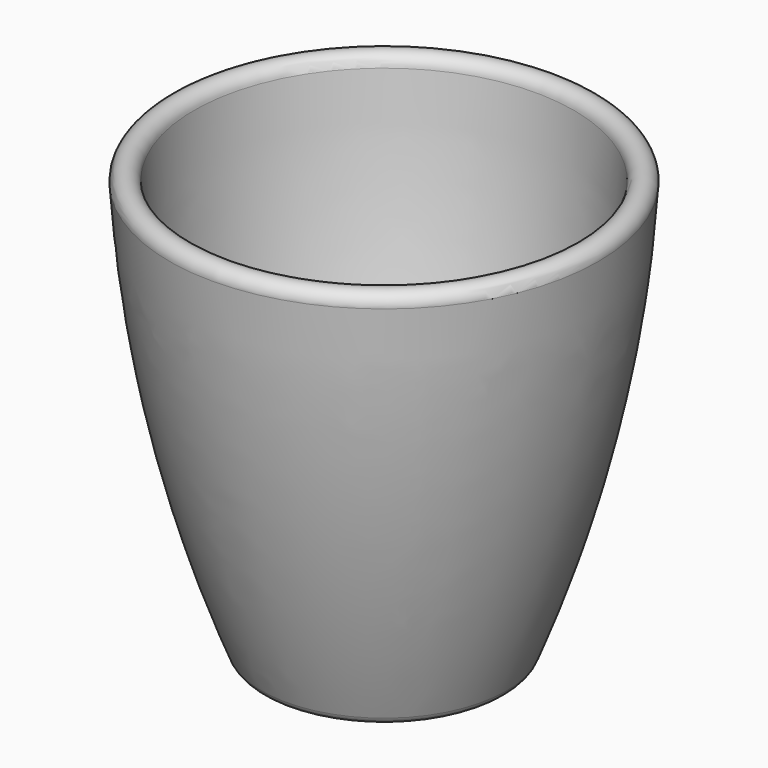
from build123d import *


with BuildPart() as f1:
    # F0 (on Front) → F1 (revolve)
    with BuildSketch(Plane.XZ):
        with BuildLine():
            Line((0, 6), (0, 1))
            Line((0, 1), (15.443911, 1))
            ThreePointArc((15.443911, 1), (15.943911, 0.866025), (16.309937, 0.5))
            ThreePointArc((16.309937, 0.5), (16.675962, 0.133975), (17.175962, 0))
            Line((17.175962, 0), (18.08738, 0))
            ThreePointArc((18.08738, 0), (19.208167, 0.343547), (19.943911, 1.256164))
            ThreePointArc((19.943911, 1.256164), (30.122203, 33.965666), (35, 67.873132))
            ThreePointArc((35, 67.873132), (33.130896, 69.995972), (31.008056, 68.126868))
            ThreePointArc((31.008056, 68.126868), (27.660355, 41.749744), (21.036545, 15.999309))
            ThreePointArc((21.036545, 15.999309), (19.795093, 12.299556), (18.485733, 8.623288))
            ThreePointArc((18.485733, 8.623288), (17.020656, 6.720759), (14.730115, 6))
            Line((14.730115, 6), (0, 6))
        make_face()
    revolve(axis=Axis((0, 0, 33.881024), (0, 0, 1)))


solid = f1.part
